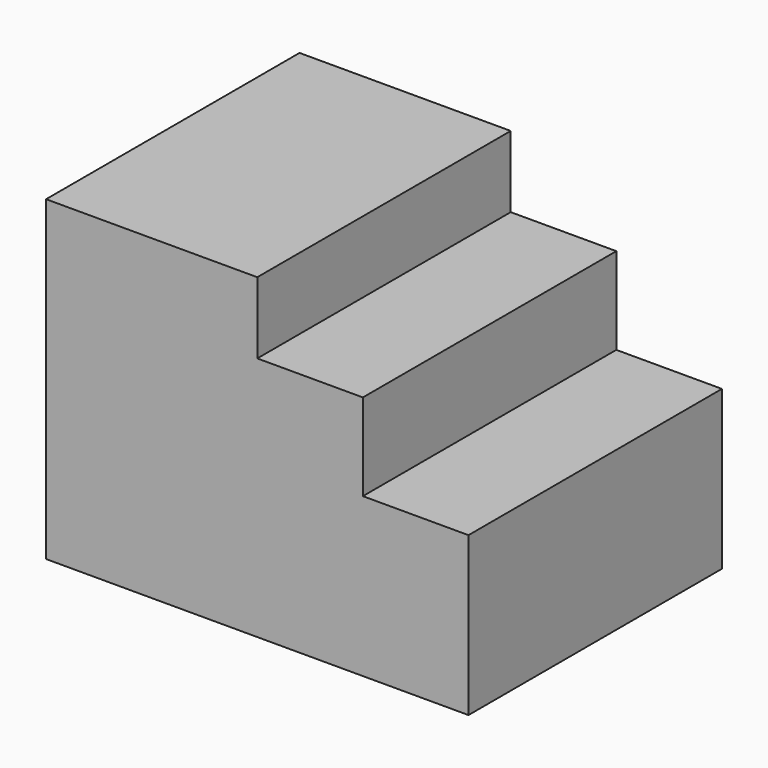
from build123d import *

# Parameters (mm, degrees)
F0_W     = 50.8
F0_H     = 76.2
F1_DEPTH = 76.2
F2_W     = 76.2
F2_H     = 38.1
F3_DEPTH = 50.8
F4_W     = 76.2
F4_H     = 20.904989
F5_DEPTH = 25.4


with BuildPart() as f1:
    # F0 (on Front) → F1 (new body)
    with BuildSketch(Plane.XZ):
        with Locations((-25.4, 38.1)):
            Rectangle(F0_W, F0_H)
    extrude(amount=F1_DEPTH)

    # F2 (on face) → F3 (join)
    with BuildSketch(Plane.YZ):
        with Locations((-38.1, 19.05)):
            Rectangle(F2_W, F2_H)
    extrude(amount=F3_DEPTH)

    # F4 (on face) → F5 (join)
    with BuildSketch(Plane.YZ):
        with Locations((-38.1, 48.552494)):
            Rectangle(F4_W, F4_H)
    extrude(amount=F5_DEPTH)


solid = f1.part
